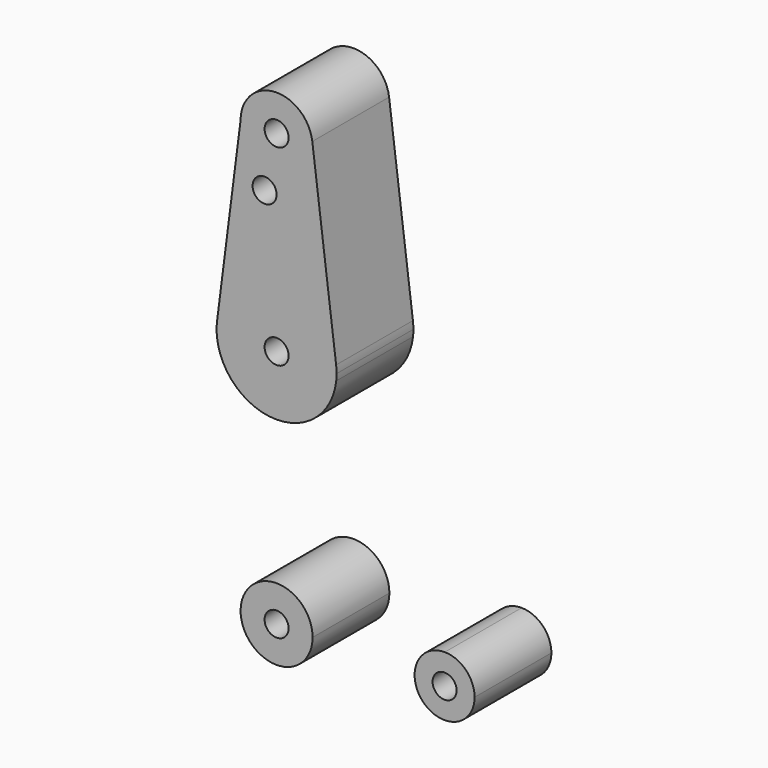
from build123d import *

# Parameters (mm, degrees)
F0_R     = 3.175
F1_DEPTH = 25.4


with BuildPart() as f1:
    # F0 (on Front) → F1 (new body)
    with BuildSketch(Plane.XZ):
        with BuildLine():
            ThreePointArc((-9.525, 114.3), (0, 104.775), (9.525, 114.3))
            ThreePointArc((9.525, 114.3), (9.506305, 114.896483), (9.450293, 115.490625))
            ThreePointArc((9.450293, 115.490625), (-0.596483, 123.806305), (-9.525, 114.3))
        make_face()
        with Locations((0, 114.3)):
            Circle(F0_R, mode=Mode.SUBTRACT)
        with BuildLine():
            ThreePointArc((9.450293, 115.490625), (9.506305, 114.896483), (9.525, 114.3))
            ThreePointArc((9.525, 114.3), (0, 104.775), (-9.525, 114.3))
            Line((-9.525, 114.3), (-15.747457, 65.508289))
            ThreePointArc((-15.747457, 65.508289), (0.012053, 79.374995), (15.750488, 65.484375))
            Line((15.750488, 65.484375), (9.450293, 115.490625))
        make_face()
        with Locations((-3.175, 100.0252)):
            Circle(F0_R, mode=Mode.SUBTRACT)
        with BuildLine():
            ThreePointArc((0, -9.525), (0.338886, -9.51897), (0.677344, -9.500886))
            Line((0.677344, -9.500886), (0, -9.525))
        make_face()
        with BuildLine():
            Line((0, -9.525), (0.677344, -9.500886))
            ThreePointArc((0.677344, -9.500886), (6.970557, -6.491299), (9.525, 0))
            ThreePointArc((9.525, 0), (-6.735192, 6.735192), (0, -9.525))
        make_face()
        Circle(F0_R, mode=Mode.SUBTRACT)
        with BuildLine():
            ThreePointArc((52.3875, 0), (50.086158, 5.589063), (44.516601, 7.937221))
            ThreePointArc((44.516601, 7.937221), (36.513234, -0.107928), (44.732405, -7.932475))
            ThreePointArc((44.732405, -7.932475), (50.161633, -5.51191), (52.3875, 0))
        make_face()
        with Locations((44.45, 0)):
            Circle(F0_R, mode=Mode.SUBTRACT)
        with BuildLine():
            ThreePointArc((15.875, 63.5), (15.843841, 64.494139), (15.750488, 65.484375))
            ThreePointArc((15.750488, 65.484375), (0.012053, 79.374995), (-15.747457, 65.508289))
            ThreePointArc((-15.747457, 65.508289), (-15.873588, 63.711757), (-15.795426, 61.9125))
            ThreePointArc((-15.795426, 61.9125), (-0.070382, 47.625156), (15.780728, 61.772506))
            ThreePointArc((15.780728, 61.772506), (15.851415, 62.634968), (15.875, 63.5))
        make_face()
        with Locations((0, 63.5)):
            Circle(F0_R, mode=Mode.SUBTRACT)
    extrude(amount=F1_DEPTH)


solid = f1.part
